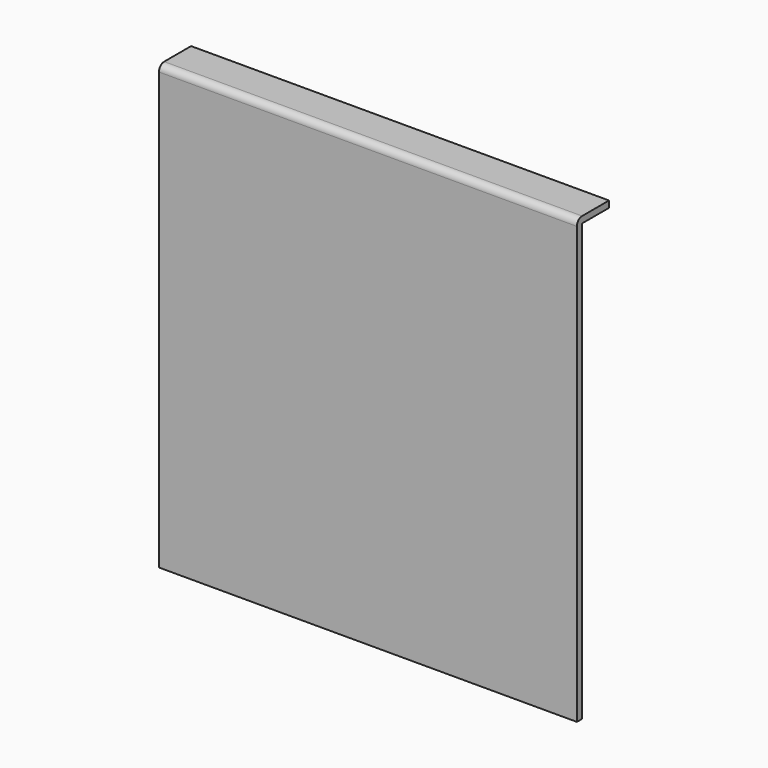
from build123d import *

# Parameters (mm, degrees)
F0_W     = 96.4152663946
F0_H     = 100.6311327219
F1_DEPTH = 1.4986
F3_DEPTH = 96.4152663946


with BuildPart() as f1:
    # F0 (on Front) → F1 (new body)
    with BuildSketch(Plane.XZ):
        Rectangle(F0_W, F0_H)
    extrude(amount=F1_DEPTH)

    # F2 (on face) → F3 (join, through all)
    with BuildSketch(Plane.YZ.offset(48.2076331973)):
        with BuildLine():
            Line((7.7614295296, 51.814166361), (0, 51.814166361))
            ThreePointArc((0, 51.814166361), (-1.0596702223, 51.3752365832), (-1.4986, 50.315566361))
            Line((-1.4986, 50.315566361), (0, 50.315566361))
            Line((0, 50.315566361), (7.6948883943, 50.315566361))
            Line((7.6948883943, 50.315566361), (7.7614295296, 51.814166361))
        make_face()
    extrude(amount=-F3_DEPTH)


solid = f1.part
